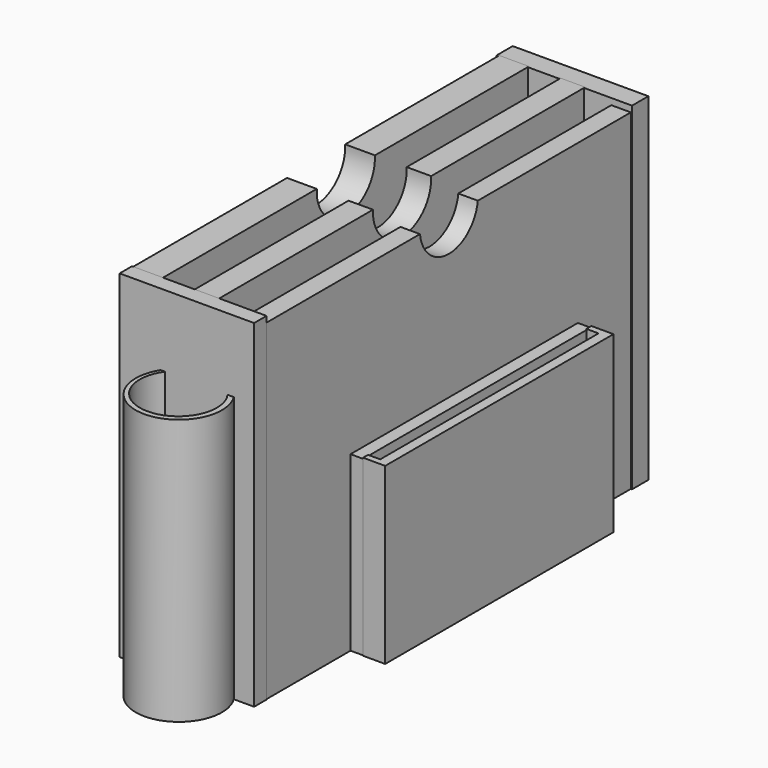
from build123d import *

# Parameters (mm, degrees)
F0_W      = 2.3441631347
F0_H      = 55.0290979445
F1_DEPTH  = 39.878
F2_W      = 2.9410969
F2_H      = 55.0290979445
F3_DEPTH  = 40.64
F2_W_2    = 3.5789022222
F4_W      = 16.1798002664
F4_H      = 1.8669000128
F5_DEPTH  = 40.64
F6_W      = 16.3212304469
F6_H      = 2.4581104517
F7_DEPTH  = 40.64
F9_DEPTH  = 1524
F10_W     = 10.2717103437
F10_H     = 55.0169795752
F11_DEPTH = 0.508
F12_W     = 34.1899227351
F12_H     = 20.8132024854
F13_DEPTH = 1.524
F14_W     = 1.1937352829
F14_H     = 0.7482906803
F14_H_2   = 32.8233968467
F14_H_3   = 0.7529705763
F14_W_2   = 1.468735747
F15_DEPTH = 20.9804
F16_W     = 2.3114006035
F16_H     = 33.4264012054
F17_DEPTH = 1.016
F19_DEPTH = 32.004


with BuildPart() as f1:
    # F0 (on Top) → F1 (new body)
    with BuildSketch(Plane.XY):
        with Locations((1.1720815673, 27.5145489722)):
            Rectangle(F0_W, F0_H)
    extrude(amount=F1_DEPTH)


with BuildPart() as f3:
    # F2 (on Top) → F3 (new body)
    with BuildSketch(Plane.XY):
        with Locations((-4.7598482342, 27.5145489722)):
            Rectangle(F2_W, F2_H)
    extrude(amount=F3_DEPTH)


with BuildPart() as f3b:
    # F2 (on Top) → F3, piece 2 (new body)
    with BuildSketch(Plane.XY):
        with Locations((-11.8424394168, 27.5145489722)):
            Rectangle(F2_W_2, F2_H)
    extrude(amount=F3_DEPTH)


with BuildPart() as f5:
    # F4 (on Top) → F5 (new body)
    with BuildSketch(Plane.XY):
        with Locations((-5.6896003662, -0.9334500064)):
            Rectangle(F4_W, F4_H)
    extrude(amount=F5_DEPTH)

    # F18 (on Top) → F19 (join)
    with BuildSketch(Plane.XY):
        with BuildLine():
            Line((-0.5623976467, -1.1822324013), (-8.4474748001, -1.323352335))
            ThreePointArc((-8.4474748001, -1.323352335), (-4.3514221015, -9.830394863), (-0.5623976467, -1.1822324013))
        make_face()
        with BuildLine():
            ThreePointArc((-1.0391375981, -1.5516541898), (-4.4550866105, -9.1954568912), (-8.1994263455, -1.7070426838))
            Line((-8.1994263455, -1.7070426838), (-1.0391375981, -1.5516541898))
        make_face(mode=Mode.SUBTRACT)
    extrude(amount=F19_DEPTH)


with BuildPart() as f7:
    # F6 (on Top) → F7 (new body)
    with BuildSketch(Plane.XY):
        with Locations((-5.6702439906, 56.0785979033)):
            Rectangle(F6_W, F6_H)
    extrude(amount=F7_DEPTH)


with BuildPart() as f9_tool:
    # F8 (on face) → F9 (new body)
    with BuildSketch(Plane(origin=(-13.6318905279, 0, 0), x_dir=(0, -1, 0), z_dir=(-1, 0, 0))):
        with BuildLine():
            Line((-23.1191683561, 40.64), (-31.8644456565, 40.64))
            ThreePointArc((-31.8644456565, 40.64), (-27.4918070063, 36.012069872), (-23.1191683561, 40.64))
        make_face()
    extrude(amount=-F9_DEPTH)


with BuildPart() as f1_1:
    add(f1.part)

    # F9: cut by f9_tool
    add(f9_tool.part, mode=Mode.SUBTRACT)

    # F12 (on face) → F13 (join)
    with BuildSketch(Plane.YZ.offset(2.3441631347)):
        with Locations((29.7937216237, 10.4066012427)):
            Rectangle(F12_W, F12_H)
    extrude(amount=F13_DEPTH)


with BuildPart() as f3_1:
    add(f3.part)

    # F9: cut by f9_tool
    add(f9_tool.part, mode=Mode.SUBTRACT)


with BuildPart() as f3b_1:
    add(f3b.part)

    # F9: cut by f9_tool
    add(f9_tool.part, mode=Mode.SUBTRACT)


with BuildPart() as f11:
    # F10 (on Top) → F11 (new body)
    with BuildSketch(Plane.XY):
        with Locations((-5.1358551718, 27.5084897876)):
            Rectangle(F10_W, F10_H)
    extrude(amount=F11_DEPTH)


with BuildPart() as f15:
    # F14 (on Top) → F15 (new body)
    with BuildSketch(Plane.XY):
        with Locations((5.9795549605, 12.9982368089)):
            Rectangle(F14_W, F14_H)
        with Locations((5.9795549605, 29.7840805724)):
            Rectangle(F14_W, F14_H_2)
        with Locations((5.9795549605, 46.5722642839)):
            Rectangle(F14_W, F14_H_3)
        with Locations((4.6483194456, 46.5722642839)):
            Rectangle(F14_W_2, F14_H_3)
        with Locations((5.9795549605, 12.9982368089)):
            Rectangle(F14_W, F14_H)
        with Locations((4.6483194456, 12.9982368089)):
            Rectangle(F14_W_2, F14_H)
    extrude(amount=F15_DEPTH)

    # F16 (on Top) → F17 (join)
    with BuildSketch(Plane.XY):
        with Locations((5.1562010776, 29.9593000673)):
            Rectangle(F16_W, F16_H)
    extrude(amount=F17_DEPTH)


solid = Compound([f5.part, f7.part, f1_1.part, f3_1.part, f3b_1.part, f11.part, f15.part])
